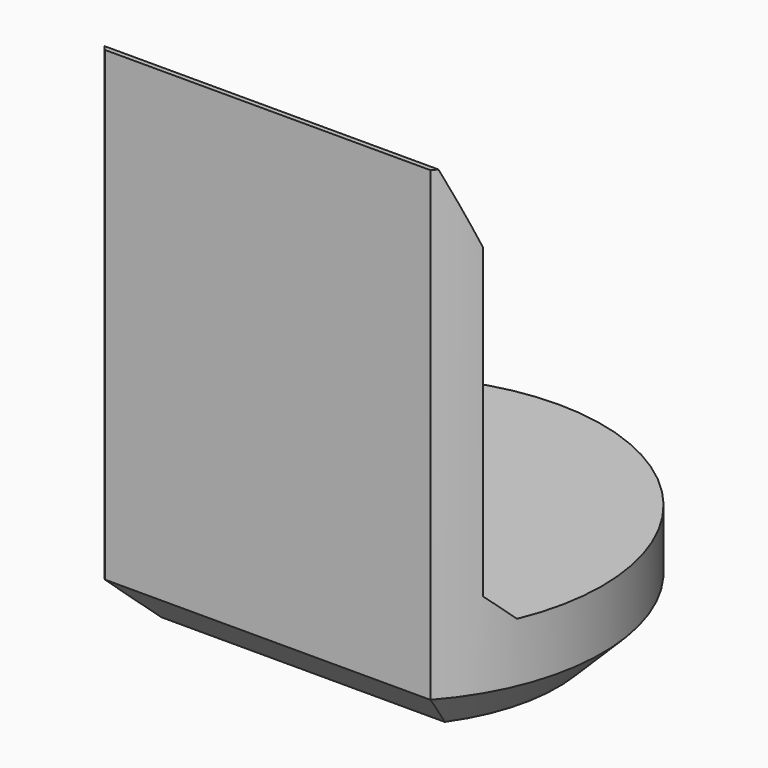
from build123d import *

# Parameters (mm, degrees)
PAD007_DEPTH         = 6.9
POCKET005_DEPTH      = 2.951
POCKET005_DEPTH_BACK = 2.951
CHAMFER008_SIZE      = 0.6


with BuildPart() as part:
    # Sketch018 → Pad007 (new body)
    with BuildSketch(Plane.XY):
        with BuildLine():
            ThreePointArc((2.2, -1.9653244007), (0, 2.95), (-2.2, -1.9653244007))
            Line((-2.2, -1.9653244007), (2.2, -1.9653244007))
        make_face()
    extrude(amount=PAD007_DEPTH)

    # Sketch019 → Pocket005 (cut, two sides)
    with BuildSketch(Plane.YZ) as pocket005_sk:
        Polygon((-1.9, 6.9), (-1.5, 5.9), (-1.5, 1.75), (-1.15, 1.4), (5, 1.4), (5, 6.9), align=None)
    extrude(amount=-POCKET005_DEPTH, mode=Mode.SUBTRACT)
    extrude(pocket005_sk.sketch, amount=POCKET005_DEPTH_BACK, mode=Mode.SUBTRACT)

    # Chamfer008
    chamfer008_edges = [part.edges().sort_by_distance(p)[0] for p in [
        (0, 2.95, 0),
        (0, -1.965324, 0),
    ]]
    chamfer(chamfer008_edges, length=CHAMFER008_SIZE)


with BuildPart() as part_1:
    # Body062 placement: moved
    add(part.part.moved(Location((0, 72, 0))))


solid = part_1.part
